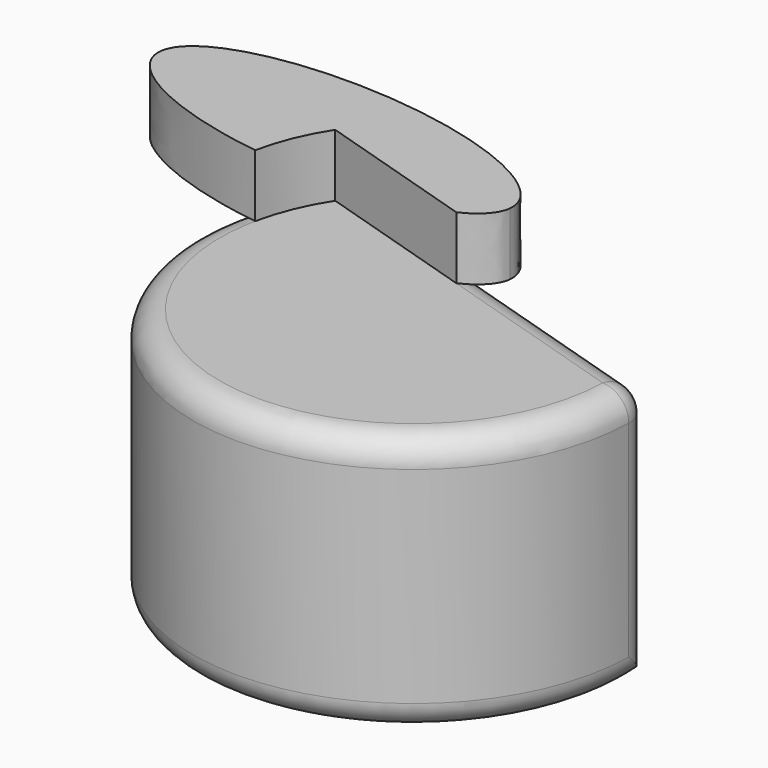
from build123d import *

# Parameters (mm, degrees)
F1_DEPTH = 49.53
F2_R     = 5.08
F4_DEPTH = 11.938


with BuildPart() as f1:
    # F0 (on Top) → F1 (new body)
    with BuildSketch(Plane.XY):
        with BuildLine():
            Line((43.0627092719, 9.4279302284), (-31.8511165679, 32.6155424118))
            ThreePointArc((-31.8511165679, 32.6155424118), (-11.3086114149, -33.6248132086), (43.0627092719, 9.4279302284))
        make_face()
    extrude(amount=F1_DEPTH)

    # F2
    f2_edges = [f1.edges().sort_by_distance(p)[0] for p in [
        (-31.851117, 32.615542, 24.765),
        (43.062709, 9.42793, 24.765),
        (-11.308611, -33.624813, 0),
        (-11.308611, -33.624813, 49.53),
        (5.605796, 21.021736, 49.53),
    ]]
    fillet(f2_edges, radius=F2_R)


with BuildPart() as f4:
    # F3 (on face) → F4 (new body)
    with BuildSketch(Plane.XY.offset(49.53)):
        with BuildLine():
            add(Edge.make_bspline(
                [(0.9420125467, 17.1475086393), (6.034321274, 19.7053182027), (6.37022499, 23.1876131147)],
                knots=[5.7625529421, 5.7625529421, 5.7625529421, 6.2831853072, 6.2831853072, 6.2831853072], degree=2, weights=[1, 0.9663086455, 1]))
            add(Edge.make_bspline(
                [(6.37022499, 23.1876131147), (9.1943801366, 52.4654705209), (-53.1122305045, 38.7505630843), (-115.4188411457, 25.0356556478), (-35.0627385662, 14.0674049354)],
                knots=[0, 0, 0, 2.3016526269, 2.3016526269, 4.6033052537, 4.6033052537, 4.6033052537], degree=2, weights=[1, 0.4077330724, 1, 0.4077330724, 1]))
            ThreePointArc((-35.0627385662, 14.0674049354), (-33.0507486956, 20.6170728388), (-29.8643745853, 26.682818705))
            Line((-29.8643745853, 26.682818705), (0.9420125467, 17.1475086393))
        make_face()
    extrude(amount=F4_DEPTH)


solid = Compound([f1.part, f4.part])
